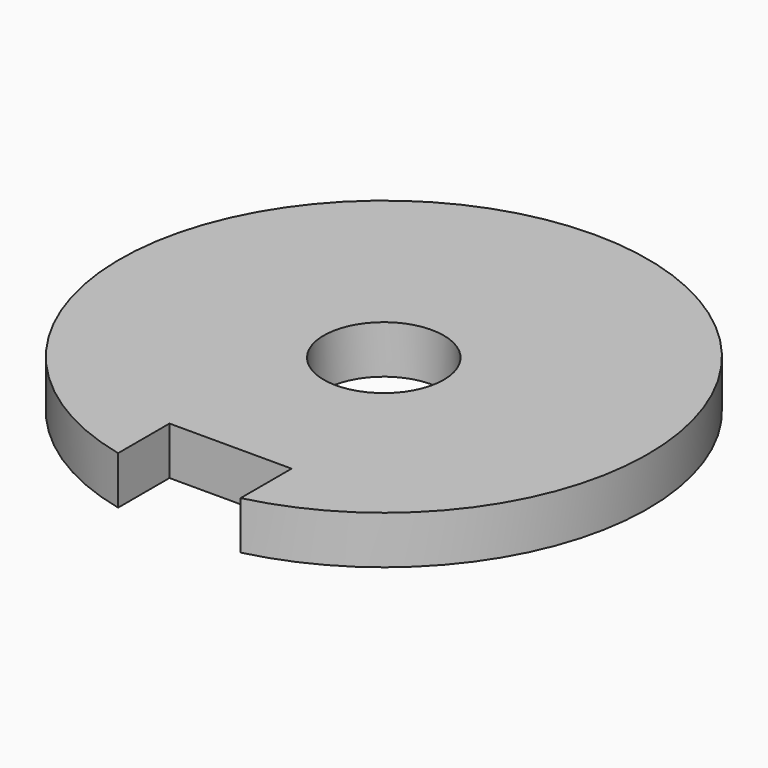
from build123d import *

# Parameters (mm, degrees)
F0_R     = 27.5
F1_DEPTH = 5
F2_R     = 6.25
F3_DEPTH = 25
F4_W     = 9.638923
F4_H     = 7.71114
F5_DEPTH = 5
F6_W     = 12.723378
F6_H     = 9.831702
F7_DEPTH = 25


with BuildPart() as f1:
    # F0 (on Top) → F1 (new body)
    with BuildSketch(Plane.XY):
        with Locations((-0.094615, 0.134945)):
            Circle(F0_R)
    extrude(amount=F1_DEPTH)

    # F2 (on face) → F3 (cut)
    with BuildSketch(Plane.XY.offset(5)):
        Circle(F2_R)
    extrude(amount=-F3_DEPTH, mode=Mode.SUBTRACT)

    # F4 (on face) → F5 (cut)
    with BuildSketch(Plane.XY.offset(5)):
        with Locations((0.578336, -24.772032)):
            Rectangle(F4_W, F4_H)
    extrude(amount=-F5_DEPTH, mode=Mode.SUBTRACT)

    # F6 (on face) → F7 (cut)
    with BuildSketch(Plane.XY.offset(5)):
        with Locations((-1e-06, -24.868422)):
            Rectangle(F6_W, F6_H)
    extrude(amount=-F7_DEPTH, mode=Mode.SUBTRACT)


solid = f1.part
